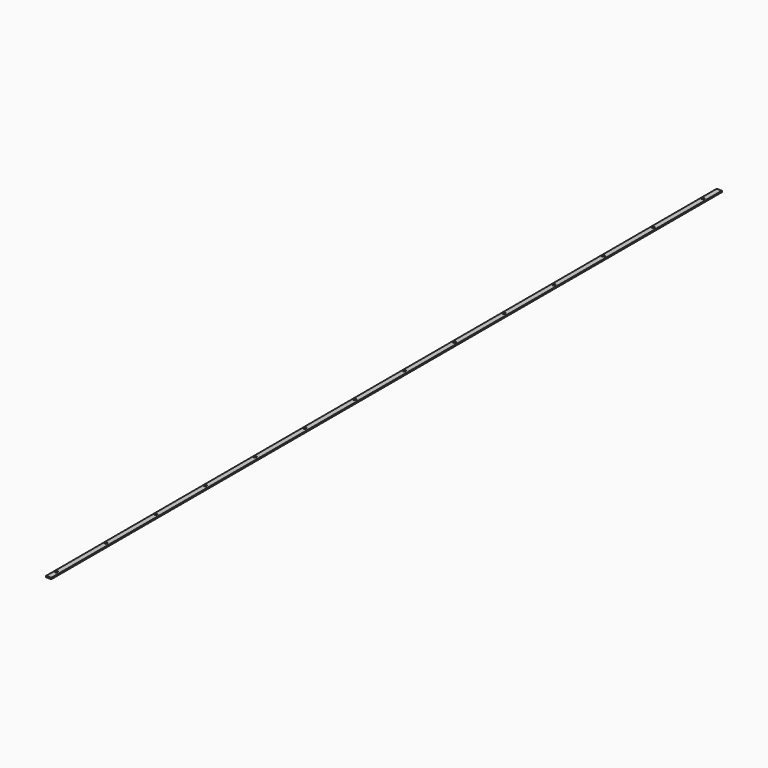
from build123d import *

# Parameters (mm, degrees)
F0_W           = 19.05
F0_H           = 4.7625
F1_DEPTH       = 1524
F3_D           = 5.1054
F3_CSINK_D     = 10.4394
F3_CSINK_ANGLE = 82


with BuildPart() as f1:
    # F0 (on Front) → F1 (new body, symmetric)
    with BuildSketch(Plane.XZ):
        with Locations((9.525, 2.38125)):
            Rectangle(F0_W, F0_H)
    extrude(amount=F1_DEPTH, both=True)

    # F3 (through all)
    with Locations(Plane.XY.offset(4.7625)):
        with Locations((6.35, 1452.88), (6.35, 1226.82), (6.35, 774.7), (6.35, 1000.76), (6.35, -807.72), (6.35, -581.66), (6.35, -355.6), (6.35, 548.64), (6.35, -129.54), (6.35, 96.52), (6.35, 322.58), (31.75, -1485.9), (6.35, -1485.9), (6.35, -1259.84), (6.35, -1033.78)):
            CounterSinkHole(F3_D / 2, F3_CSINK_D / 2, counter_sink_angle=F3_CSINK_ANGLE)


solid = f1.part
